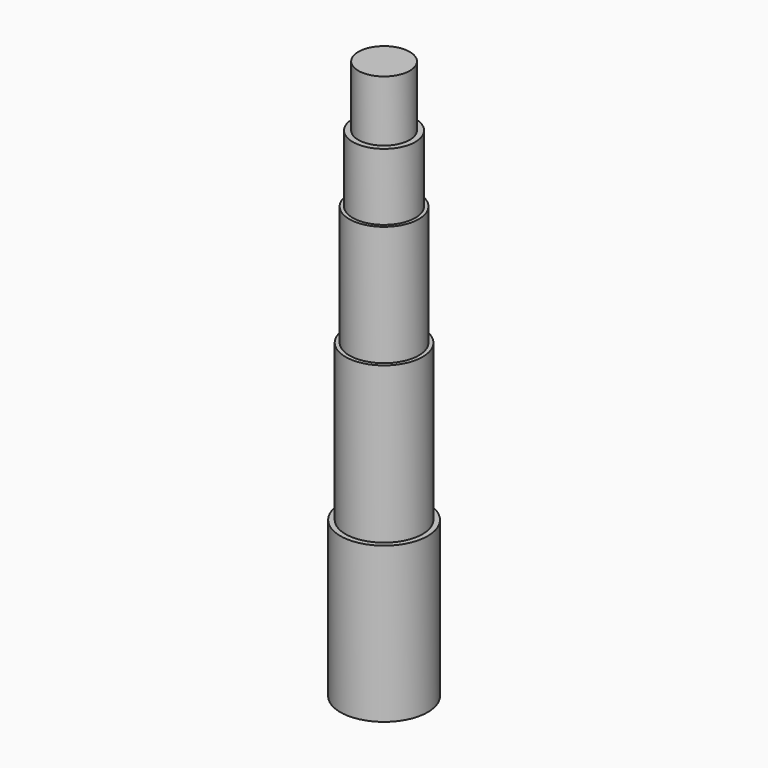
from build123d import *

# Parameters (mm, degrees)
F0_R     = 12.954
F0_R_2   = 11.43
F1_DEPTH = 45.974
F0_R_3   = 10.287
F2_DEPTH = 92.202
F0_R_4   = 9.271
F3_DEPTH = 127.762
F0_R_5   = 7.62
F4_DEPTH = 147.574
F5_DEPTH = 165.608


with BuildPart() as f1:
    # F0 (on Top) → F1 (new body)
    with BuildSketch(Plane.XY):
        Circle(F0_R)
        Circle(F0_R_2, mode=Mode.SUBTRACT)
    extrude(amount=F1_DEPTH)

    # F0 (on Top) → F2 (join)
    with BuildSketch(Plane.XY):
        Circle(F0_R_2)
        Circle(F0_R_3, mode=Mode.SUBTRACT)
    extrude(amount=F2_DEPTH)

    # F0 (on Top) → F3 (join)
    with BuildSketch(Plane.XY):
        Circle(F0_R_3)
        Circle(F0_R_4, mode=Mode.SUBTRACT)
    extrude(amount=F3_DEPTH)

    # F0 (on Top) → F4 (join)
    with BuildSketch(Plane.XY):
        Circle(F0_R_4)
        Circle(F0_R_5, mode=Mode.SUBTRACT)
    extrude(amount=F4_DEPTH)

    # F0 (on Top) → F5 (join)
    with BuildSketch(Plane.XY):
        Circle(F0_R_5)
    extrude(amount=F5_DEPTH)


solid = f1.part
